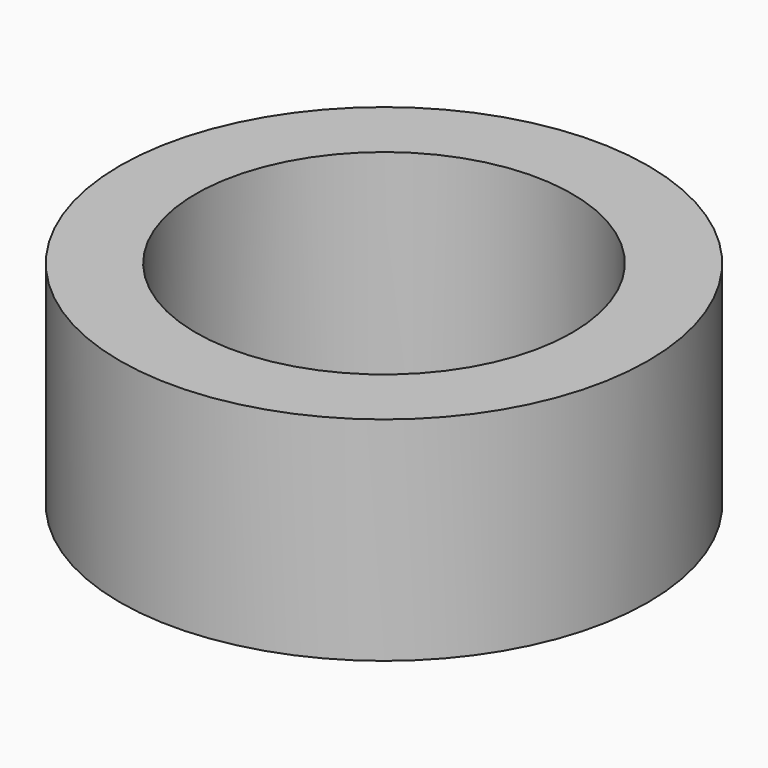
from build123d import *

# Parameters (mm, degrees)
SKETCH_R   = 20.5
SKETCH_R_2 = 14.6
PAD_DEPTH  = 16.5


with BuildPart() as part:
    # Sketch → Pad (new body)
    with BuildSketch(Plane.XY):
        Circle(SKETCH_R)
        Circle(SKETCH_R_2, mode=Mode.SUBTRACT)
    extrude(amount=PAD_DEPTH)


solid = part.part
